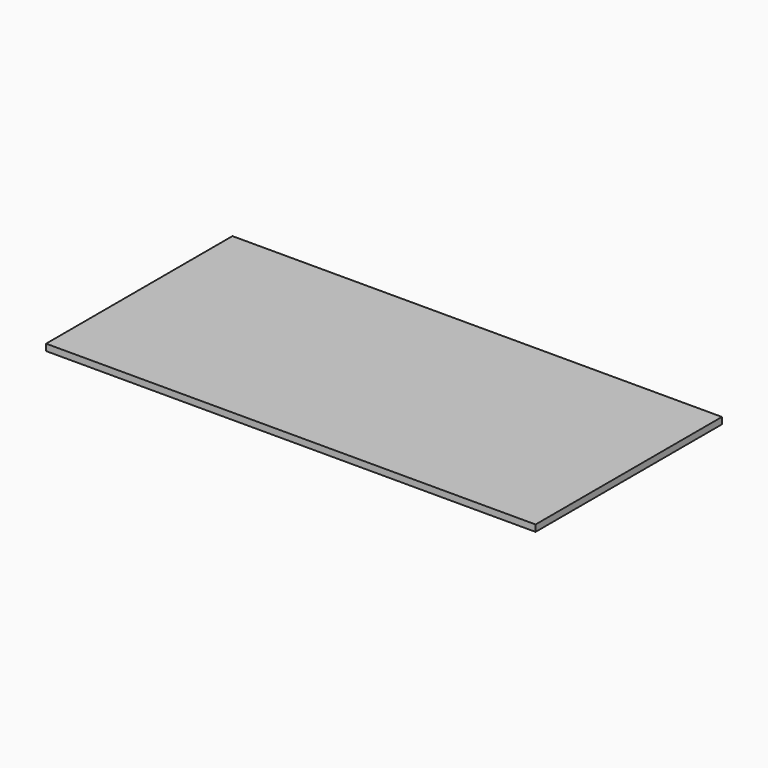
from build123d import *

# Parameters (mm, degrees)
BOX_W     = 1120
BOX_H     = 533
BOX_DEPTH = 15


with BuildPart() as part:
    # Box → Box (new body)
    with BuildSketch(Plane.XY):
        with Locations((560, 266.5)):
            Rectangle(BOX_W, BOX_H)
    extrude(amount=BOX_DEPTH)


solid = part.part
